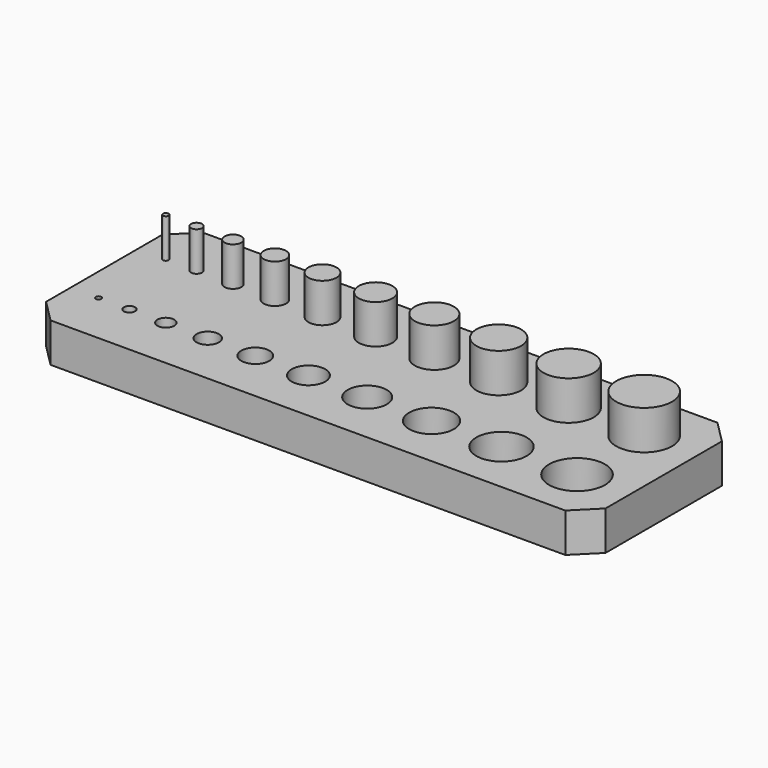
from build123d import *

# Parameters (mm, degrees)
F0_W     = 50
F0_H     = 17
F0_R     = 0.25
F0_R_2   = 0.5
F0_R_3   = 0.75
F0_R_4   = 1
F0_R_5   = 1.25
F0_R_6   = 1.5
F0_R_7   = 1.75
F0_R_8   = 2
F0_R_9   = 2.25
F0_R_10  = 2.5
F1_DEPTH = 3.5
F2_DEPTH = 7
F3_SIZE  = 2


with BuildPart() as f1:
    # F0 (on Top) → F1 (new body)
    with BuildSketch(Plane.XY):
        Rectangle(F0_W, F0_H)
        with Locations((-22.5, -3.75)):
            Circle(F0_R, mode=Mode.SUBTRACT)
        with Locations((-19.75, -3.75)):
            Circle(F0_R_2, mode=Mode.SUBTRACT)
        with Locations((-16.5, -3.75)):
            Circle(F0_R_3, mode=Mode.SUBTRACT)
        with Locations((-12.75, -3.75)):
            Circle(F0_R_4, mode=Mode.SUBTRACT)
        with Locations((-8.5, -3.75)):
            Circle(F0_R_5, mode=Mode.SUBTRACT)
        with Locations((-3.75, -3.75)):
            Circle(F0_R_6, mode=Mode.SUBTRACT)
        with Locations((1.5, -3.75)):
            Circle(F0_R_7, mode=Mode.SUBTRACT)
        with Locations((7.25, -3.75)):
            Circle(F0_R_8, mode=Mode.SUBTRACT)
        with Locations((13.5, -3.75)):
            Circle(F0_R_9, mode=Mode.SUBTRACT)
        with Locations((20.25, -3.75)):
            Circle(F0_R_10, mode=Mode.SUBTRACT)
        with Locations((-22.5, 3.75)):
            Circle(F0_R, mode=Mode.SUBTRACT)
        with Locations((-19.75, 3.75)):
            Circle(F0_R_2, mode=Mode.SUBTRACT)
        with Locations((-16.5, 3.75)):
            Circle(F0_R_3, mode=Mode.SUBTRACT)
        with Locations((-12.75, 3.75)):
            Circle(F0_R_4, mode=Mode.SUBTRACT)
        with Locations((-8.5, 3.75)):
            Circle(F0_R_5, mode=Mode.SUBTRACT)
        with Locations((-3.75, 3.75)):
            Circle(F0_R_6, mode=Mode.SUBTRACT)
        with Locations((1.5, 3.75)):
            Circle(F0_R_7, mode=Mode.SUBTRACT)
        with Locations((7.25, 3.75)):
            Circle(F0_R_8, mode=Mode.SUBTRACT)
        with Locations((13.5, 3.75)):
            Circle(F0_R_9, mode=Mode.SUBTRACT)
        with Locations((20.25, 3.75)):
            Circle(F0_R_10, mode=Mode.SUBTRACT)
    extrude(amount=F1_DEPTH)

    # F0 (on Top) → F2 (join, through all)
    with BuildSketch(Plane.XY):
        with Locations((-22.5, 3.75)):
            Circle(F0_R)
        with Locations((-19.75, 3.75)):
            Circle(F0_R_2)
        with Locations((-16.5, 3.75)):
            Circle(F0_R_3)
        with Locations((-12.75, 3.75)):
            Circle(F0_R_4)
        with Locations((-8.5, 3.75)):
            Circle(F0_R_5)
        with Locations((-3.75, 3.75)):
            Circle(F0_R_6)
        with Locations((1.5, 3.75)):
            Circle(F0_R_7)
        with Locations((7.25, 3.75)):
            Circle(F0_R_8)
        with Locations((13.5, 3.75)):
            Circle(F0_R_9)
        with Locations((20.25, 3.75)):
            Circle(F0_R_10)
    extrude(amount=F2_DEPTH)

    # F3
    f3_edges = [f1.edges().sort_by_distance(p)[0] for p in [
        (-25, -8.5, 1.75),
        (-25, 8.5, 1.75),
        (25, -8.5, 1.75),
        (25, 8.5, 1.75),
    ]]
    chamfer(f3_edges, length=F3_SIZE)


solid = f1.part
